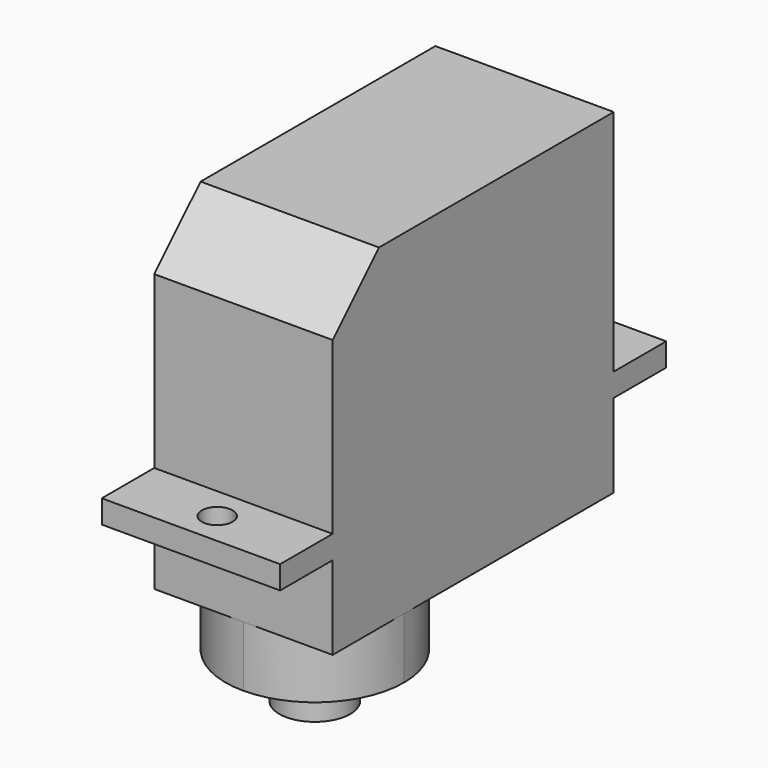
from build123d import *

# Parameters (mm, degrees)
F1_DEPTH = 11.7348
F3_DEPTH = 3.9878
F4_R     = 2.33426
F5_DEPTH = 2.9718
F6_R     = 1.016
F7_DEPTH = 25.4


with BuildPart() as f1:
    # F0 (on Right) → F1 (new body)
    with BuildSketch(Plane.YZ):
        Polygon((0, -15.0368), (0, 0), (-19.304, 0), (-23.114, -3.81), (-23.114, -15.0368), (-27.432, -15.0368), (-27.432, -16.5608), (-23.114, -16.5608), (-23.114, -22.0472), (0, -22.0472), (0, -16.5608), (4.318, -16.5608), (4.318, -15.0368), align=None)
    extrude(amount=F1_DEPTH)

    # F2 (on face) → F3 (join)
    with BuildSketch(Plane(origin=(0, 0, -22.0472), x_dir=(1, 0, 0), z_dir=(0, 0, -1))):
        with BuildLine():
            ThreePointArc((0, 17.2466), (5.8674, 11.3792), (11.7348, 17.2466))
            ThreePointArc((11.7348, 17.2466), (10.016278, 21.395478), (5.8674, 23.114))
            ThreePointArc((5.8674, 23.114), (1.718522, 21.395478), (0, 17.2466))
        make_face()
    extrude(amount=F3_DEPTH)

    # F4 (on face) → F5 (join)
    with BuildSketch(Plane(origin=(0, 0, -26.035), x_dir=(1, 0, 0), z_dir=(0, 0, -1))):
        with Locations((5.8674, 17.2466)):
            Circle(F4_R)
    extrude(amount=F5_DEPTH)

    # F6 (on face) → F7 (cut)
    with BuildSketch(Plane(origin=(0, 0, -16.5608), x_dir=(1, 0, 0), z_dir=(0, 0, -1))):
        with Locations((5.8674, 25.273)):
            Circle(F6_R)
        with Locations((5.8674, -2.159)):
            Circle(F6_R)
    extrude(amount=-F7_DEPTH, mode=Mode.SUBTRACT)


solid = f1.part
